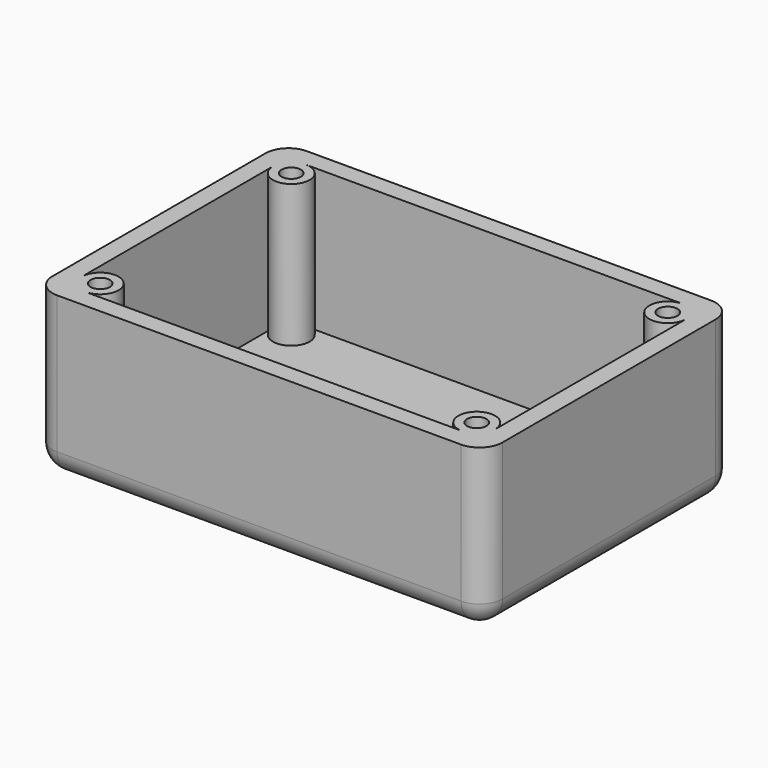
from build123d import *

# Parameters (mm, degrees)
F0_W     = 98
F0_H     = 68
F0_R     = 2.1
F1_DEPTH = 35
F2_W     = 90
F2_H     = 60
F3_DEPTH = 4
F4_R     = 5
F5_R     = 5


with BuildPart() as f1:
    # F0 (on Top) → F1 (new body)
    with BuildSketch(Plane.XY):
        Rectangle(F0_W, F0_H)
        with Locations((-41, -26)):
            Circle(F0_R, mode=Mode.SUBTRACT)
        with Locations((41, -26)):
            Circle(F0_R, mode=Mode.SUBTRACT)
        with BuildLine():
            ThreePointArc((45, -26), (38.171573, -23.171573), (41, -30))
            Line((41, -30), (-41, -30))
            ThreePointArc((-41, -30), (-38.171573, -23.171573), (-45, -26))
            Line((-45, -26), (-45, 26))
            ThreePointArc((-45, 26), (-38.171573, 23.171573), (-41, 30))
            Line((-41, 30), (41, 30))
            ThreePointArc((41, 30), (38.171573, 23.171573), (45, 26))
            Line((45, 26), (45, -26))
        make_face(mode=Mode.SUBTRACT)
        with Locations((-41, 26)):
            Circle(F0_R, mode=Mode.SUBTRACT)
        with Locations((41, 26)):
            Circle(F0_R, mode=Mode.SUBTRACT)
    extrude(amount=F1_DEPTH)

    # F2 (on Top) + F0 (on Top) → F3 (join)
    with BuildSketch(Plane.XY):
        Rectangle(F2_W, F2_H)
    with BuildSketch(Plane.XY):
        Rectangle(F0_W, F0_H)
        with Locations((-41, -26)):
            Circle(F0_R, mode=Mode.SUBTRACT)
        with Locations((41, -26)):
            Circle(F0_R, mode=Mode.SUBTRACT)
        with BuildLine():
            ThreePointArc((45, -26), (38.171573, -23.171573), (41, -30))
            Line((41, -30), (-41, -30))
            ThreePointArc((-41, -30), (-38.171573, -23.171573), (-45, -26))
            Line((-45, -26), (-45, 26))
            ThreePointArc((-45, 26), (-38.171573, 23.171573), (-41, 30))
            Line((-41, 30), (41, 30))
            ThreePointArc((41, 30), (38.171573, 23.171573), (45, 26))
            Line((45, 26), (45, -26))
        make_face(mode=Mode.SUBTRACT)
        with Locations((-41, 26)):
            Circle(F0_R, mode=Mode.SUBTRACT)
        with Locations((41, 26)):
            Circle(F0_R, mode=Mode.SUBTRACT)
    extrude(amount=F3_DEPTH)

    # F4
    f4_edges = [f1.edges().sort_by_distance(p)[0] for p in [
        (49, -34, 17.5),
        (-49, -34, 17.5),
        (-49, 34, 17.5),
    ]]
    fillet(f4_edges, radius=F4_R)

    # F5
    f5_edges = [f1.edges().sort_by_distance(p)[0] for p in [
        (49, 34, 17.5),
        (2.5, 34, 0),
    ]]
    fillet(f5_edges, radius=F5_R)


solid = f1.part
